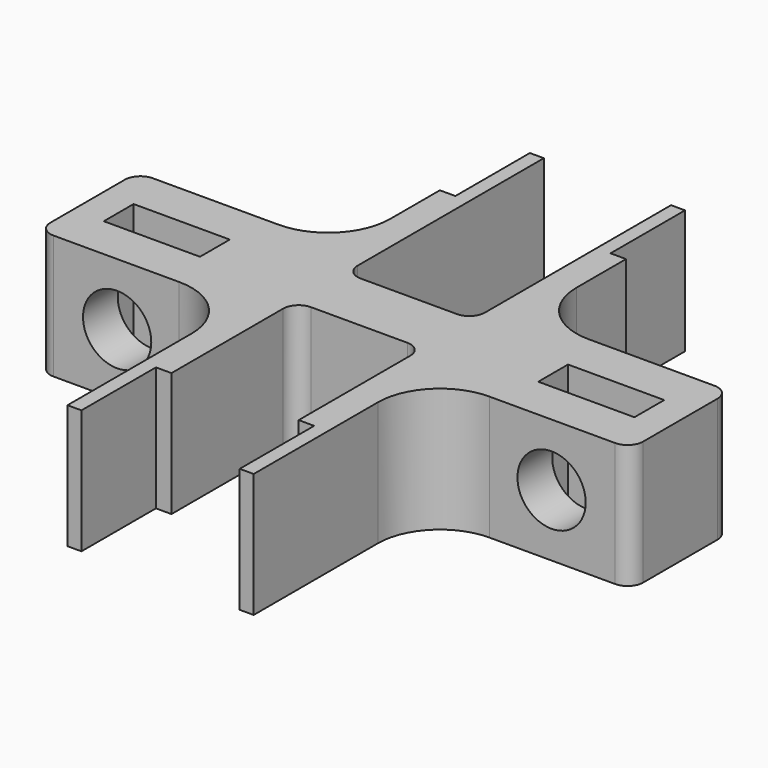
from build123d import *

# Parameters (mm, degrees)
F0_W      = 60
F0_H      = 40
F1_DEPTH  = 90
F2_W      = 41
F2_H      = 40
F3_DEPTH  = 80
F4_W      = 41
F4_H      = 40
F5_DEPTH  = 80
F6_W      = 75
F6_H      = 40
F6_R      = 11
F7_DEPTH  = 20
F8_W      = 31
F8_H      = 12
F9_DEPTH  = 40
F10_R     = 20
F11_R     = 5
F12_R     = 5
F13_W     = 5
F13_H     = 30
F14_DEPTH = 80


with BuildPart() as f1:
    # F0 (on Front) → F1 (new body, symmetric)
    with BuildSketch(Plane.XZ):
        Rectangle(F0_W, F0_H)
    extrude(amount=F1_DEPTH, both=True)

    # F2 (on face) → F3 (cut)
    with BuildSketch(Plane.XZ.offset(90)):
        Rectangle(F2_W, F2_H)
    extrude(amount=-F3_DEPTH, mode=Mode.SUBTRACT)

    # F4 (on face) → F5 (cut)
    with BuildSketch(Plane(origin=(0, 90, 0), x_dir=(-1, 0, 0), z_dir=(0, 1, 0))):
        Rectangle(F4_W, F4_H)
    extrude(amount=-F5_DEPTH, mode=Mode.SUBTRACT)

    # F6 (on Front) → F7 (join, symmetric)
    with BuildSketch(Plane.XZ):
        with Locations((58, 0)):
            Rectangle(F6_W, F6_H)
        with Locations((70, 0)):
            Circle(F6_R, mode=Mode.SUBTRACT)
        with Locations((-58, 0)):
            Rectangle(F6_W, F6_H)
        with Locations((-70, 0)):
            Circle(F6_R, mode=Mode.SUBTRACT)
    extrude(amount=F7_DEPTH, both=True)

    # F8 (on face) → F9 (cut)
    with BuildSketch(Plane.XY.offset(20)):
        with Locations((70, 0)):
            Rectangle(F8_W, F8_H)
        with Locations((-70, 0)):
            Rectangle(F8_W, F8_H)
    extrude(amount=-F9_DEPTH, mode=Mode.SUBTRACT)

    # F10
    f10_edges = [f1.edges().sort_by_distance(p)[0] for p in [
        (-30, -20, 0),
        (30, -20, 0),
        (-30, 20, 0),
        (30, 20, 0),
    ]]
    fillet(f10_edges, radius=F10_R)

    # F11
    f11_edges = [f1.edges().sort_by_distance(p)[0] for p in [
        (-95.5, 20, 0),
        (-95.5, -20, 0),
        (95.5, -20, 0),
        (95.5, 20, 0),
    ]]
    fillet(f11_edges, radius=F11_R)

    # F12
    f12_edges = [f1.edges().sort_by_distance(p)[0] for p in [
        (-20.5, -10, 0),
        (-20.5, 10, 0),
        (20.5, 10, 0),
        (20.5, -10, 0),
    ]]
    fillet(f12_edges, radius=F12_R)

    # F13 (on face) → F14 (cut)
    with BuildSketch(Plane.XY.offset(20)):
        with Locations((-27.5, 75)):
            Rectangle(F13_W, F13_H)
        with Locations((27.5, 75)):
            Rectangle(F13_W, F13_H)
        with Locations((-23, -75)):
            Rectangle(F13_W, F13_H)
        with Locations((23, -75)):
            Rectangle(F13_W, F13_H)
    extrude(amount=-F14_DEPTH, mode=Mode.SUBTRACT)


solid = f1.part
